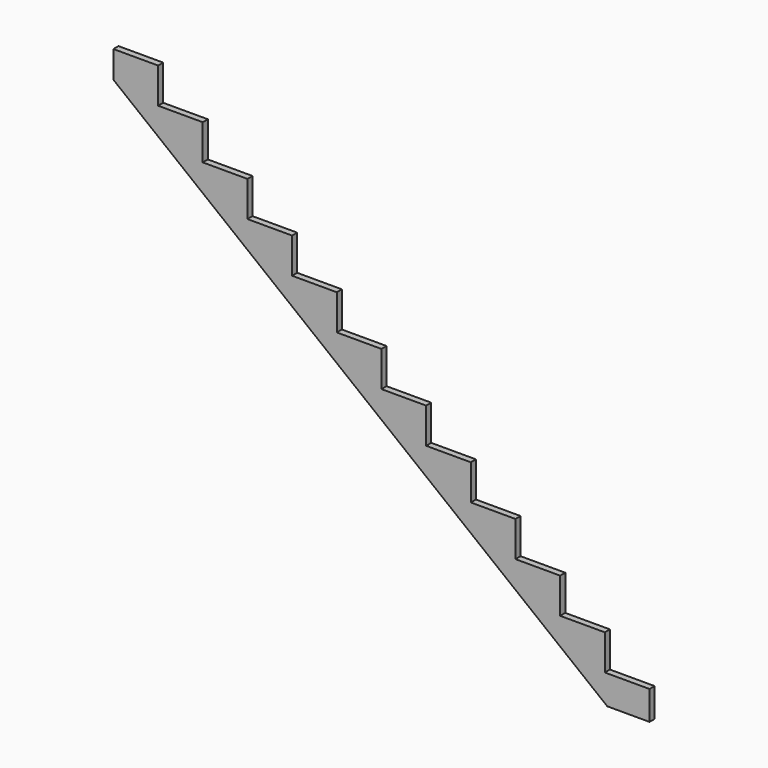
from build123d import *

# Parameters (mm, degrees)
F1_DEPTH = 38.1


with BuildPart() as f1:
    # F0 (on Front) → F1 (new body)
    with BuildSketch(Plane.XZ):
        Polygon((-252.021796, 0), (0, 0), (0, 173.0375), (-266.7, 173.0375), (-266.7, 384.175), (-533.4, 384.175), (-533.4, 595.3125), (-800.1, 595.3125), (-800.1, 806.45), (-1066.8, 806.45), (-1066.8, 1017.5875), (-1333.5, 1017.5875), (-1333.5, 1228.725), (-1600.2, 1228.725), (-1600.2, 1439.8625), (-1866.9, 1439.8625), (-1866.9, 1651), (-2133.6, 1651), (-2133.6, 1862.1375), (-2400.3, 1862.1375), (-2400.3, 2073.275), (-2667, 2073.275), (-2667, 2284.4125), (-2933.7, 2284.4125), (-2933.7, 2495.55), (-3200.4, 2495.55), (-3200.4, 2334.132745), align=None)
    extrude(amount=F1_DEPTH)


solid = f1.part
